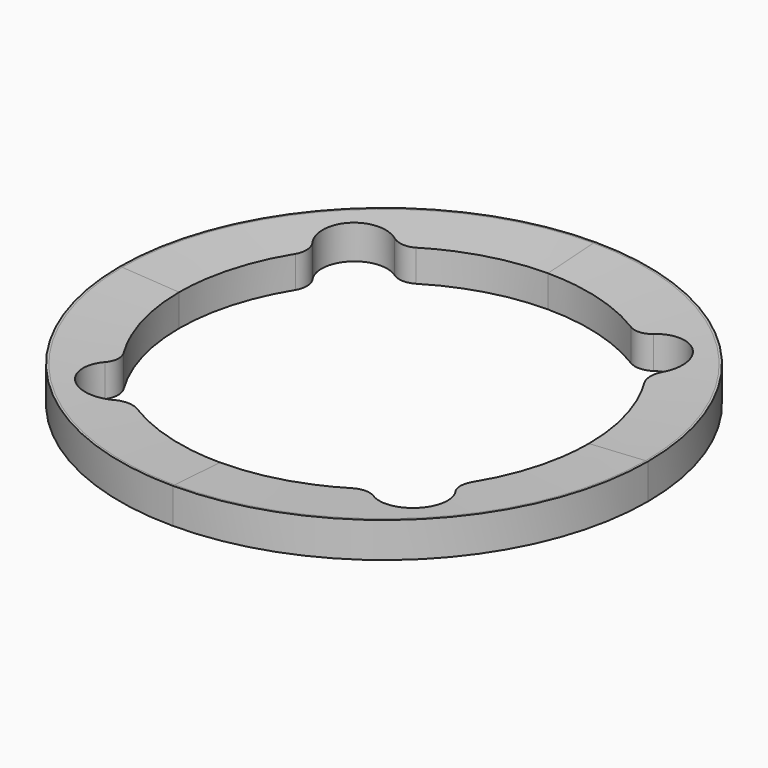
from build123d import *

# Parameters (mm, degrees)
PAD020_DEPTH       = 4
CHAMFER004_SIZE2   = 6.6
CHAMFER004_SIZE    = 0.4
POCKET005_DEPTH    = 5
POLARPATTERN_COUNT = 4


with BuildPart() as part:
    # Sketch027 → Pad020 (new body)
    with BuildSketch(Plane.XY):
        with BuildLine():
            ThreePointArc((0, 29.95), (-21.177848, 21.177848), (-29.95, 0))
            Line((-29.95, 0), (-23.1, 0))
            ThreePointArc((0, 23.1), (-16.334167, 16.334167), (-23.1, 0))
            Line((0, 29.95), (0, 23.1))
        make_face()
    extrude(amount=PAD020_DEPTH)

    # Chamfer004
    chamfer004_edges = [part.edges().sort_by_distance(p)[0] for p in [
        (-16.334167, 16.334167, 4),
    ]]
    chamfer004_side = part.faces().sort_by_distance((-16.334167, 16.334167, 2))[0]
    chamfer(chamfer004_edges, length=CHAMFER004_SIZE, length2=CHAMFER004_SIZE2, reference=chamfer004_side)

    # Sketch015 → Pocket005 (cut)
    with BuildSketch(Plane.XY):
        with BuildLine():
            ThreePointArc((0, 20.5), (-14.495689, 14.495689), (-20.5, 0))
            Line((-20.5, 0), (-23.25, 0))
            ThreePointArc((-19.791981, 12.2), (-22.368796, 6.340306), (-23.25, 0))
            ThreePointArc((-19.791981, 12.2), (-19.466026, 13.456827), (-19.866411, 14.691959))
            ThreePointArc((-14.691475, 19.881138), (-19.458765, 19.460387), (-19.866411, 14.691959))
            ThreePointArc((-14.691475, 19.881138), (-13.458731, 19.47346), (-12.2, 19.791981))
            ThreePointArc((0, 23.25), (-6.340306, 22.368796), (-12.2, 19.791981))
            Line((0, 20.5), (0, 23.25))
        make_face()
    extrude(amount=POCKET005_DEPTH, mode=Mode.SUBTRACT)

    # PolarPattern: part ×4 about axis
    polarpattern_axis = Axis((0, 0, 0), (0, 0, 1))


with BuildPart() as part_1:
    add(part.part)
    for i in range(1, POLARPATTERN_COUNT):
        add(part.part.rotate(polarpattern_axis, i * 360 / POLARPATTERN_COUNT))


with BuildPart() as part_2:
    # Body003 placement: moved
    add(part_1.part.moved(Location((-45, 0, 42.7))))


solid = part_2.part
